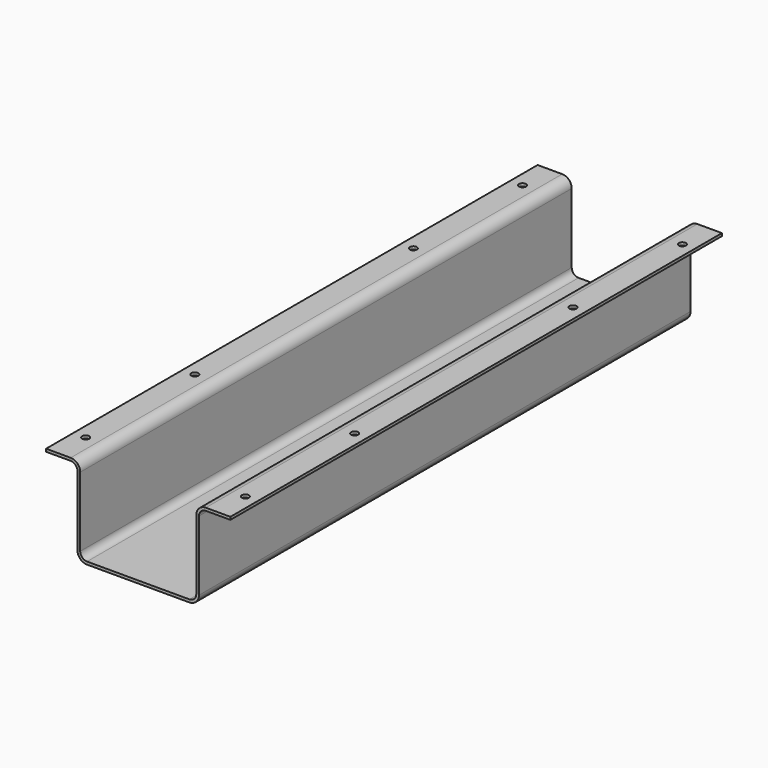
from build123d import *

# Parameters (mm, degrees)
F1_DEPTH = 450
F2_R     = 5
F3_R     = 7
F4_R     = 2.6
F5_DEPTH = 25


with BuildPart() as f1:
    # F0 (on Front) → F1 (new body)
    with BuildSketch(Plane.XZ):
        Polygon((-67.5, 2), (-67.5, 0), (-44.5, 0), (-44.5, -63), (0, -63), (44.5, -63), (44.5, 0), (67.5, 0), (67.5, 2), (42.5, 2), (42.5, -61), (0, -61), (-42.5, -61), (-42.5, 2), align=None)
    extrude(amount=F1_DEPTH)

    # F2
    f2_edges = [f1.edges().sort_by_distance(p)[0] for p in [
        (-42.5, -225, -61),
        (44.5, -225, 0),
        (-44.5, -225, 0),
        (42.5, -225, -61),
    ]]
    fillet(f2_edges, radius=F2_R)

    # F3
    f3_edges = [f1.edges().sort_by_distance(p)[0] for p in [
        (-42.5, -225, 2),
        (44.5, -225, -63),
        (42.5, -225, 2),
        (-44.5, -225, -63),
    ]]
    fillet(f3_edges, radius=F3_R)

    # F4 (on face) → F5 (cut)
    with BuildSketch(Plane.XY.offset(2)):
        with Locations((58.5, -425)):
            Circle(F4_R)
        with Locations((58.5, -325)):
            Circle(F4_R)
        with Locations((58.5, -125)):
            Circle(F4_R)
        with Locations((58.5, -25)):
            Circle(F4_R)
        with Locations((-58.5, -25)):
            Circle(F4_R)
        with Locations((-58.5, -125)):
            Circle(F4_R)
        with Locations((-58.5, -325)):
            Circle(F4_R)
        with Locations((-58.5, -425)):
            Circle(F4_R)
    extrude(amount=-F5_DEPTH, mode=Mode.SUBTRACT)


solid = f1.part
